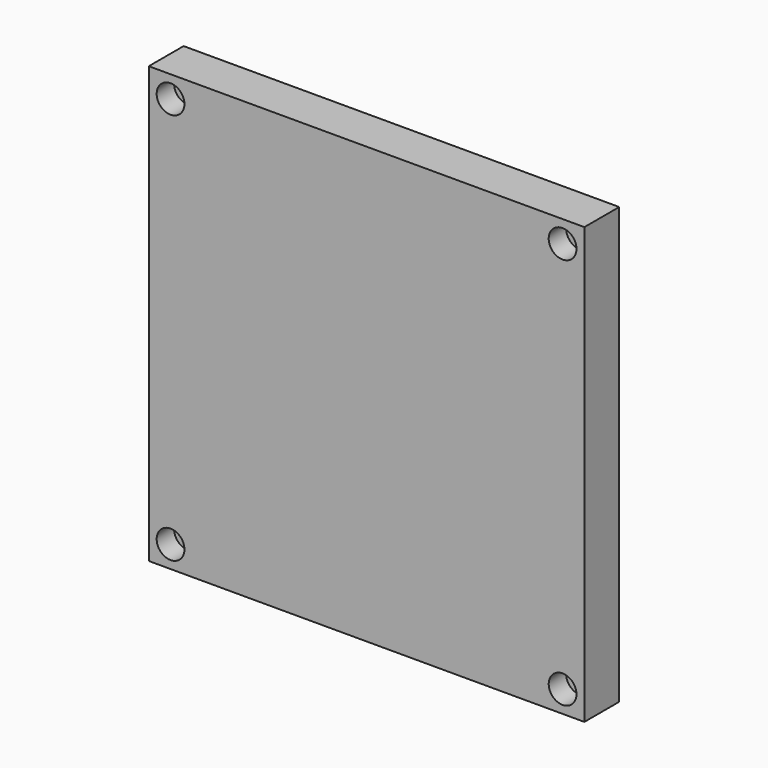
from build123d import *

# Parameters (mm, degrees)
F0_W           = 400
F0_H           = 400
F1_DEPTH       = 40
F3_D           = 14
F3_CBORE_D     = 25.5
F3_CBORE_DEPTH = 20


with BuildPart() as f1:
    # F0 (on Front) → F1 (new body)
    with BuildSketch(Plane.XZ):
        with Locations((200, 200)):
            Rectangle(F0_W, F0_H)
    extrude(amount=F1_DEPTH)

    # F3 (through all)
    with Locations(Plane.XZ.offset(40)):
        with Locations((20, 380), (380, 380), (380, 20), (20, 20)):
            CounterBoreHole(F3_D / 2, F3_CBORE_D / 2, F3_CBORE_DEPTH)


solid = f1.part
